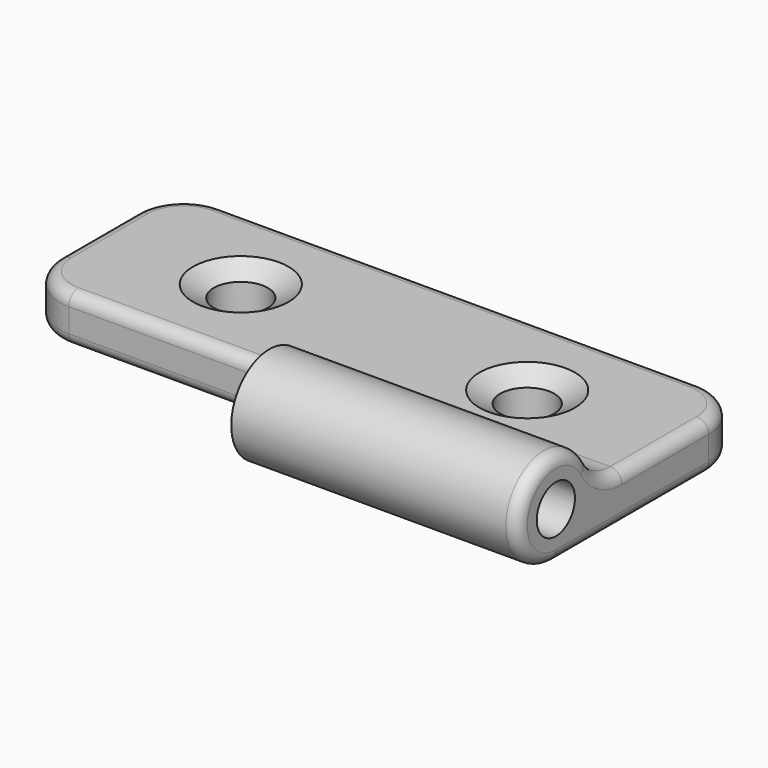
from build123d import *

# Parameters (mm, degrees)
F0_R     = 3.175
F1_DEPTH = 38.1
F2_W     = 25.4
F2_H     = 6.35
F3_DEPTH = 38.1
F4_R     = 6.35
F5_DEPTH = 1.5875
F5_TAPER = 60
F6_R     = 3.600369343
F7_DEPTH = 4.7635
F8_R     = 6.35
F9_R     = 1.5875


with BuildPart() as f1:
    # F0 (on Right) → F1 (new body)
    with BuildSketch(Plane.YZ):
        with BuildLine():
            Line((12.7, -3.175), (12.7, 3.175))
            Line((12.7, 3.175), (-8.0514773719, 3.175))
            ThreePointArc((-8.0514773719, 3.175), (-11.2264773719, 4.025738686), (-13.550738686, 6.35))
            ThreePointArc((-13.550738686, 6.35), (-24.549261314, 6.35), (-19.05, -3.175))
            Line((-19.05, -3.175), (12.7, -3.175))
        make_face()
        with Locations((-19.05, 3.175)):
            Circle(F0_R, mode=Mode.SUBTRACT)
    extrude(amount=F1_DEPTH)

    # F2 (on Right) → F3 (join)
    with BuildSketch(Plane.YZ):
        Rectangle(F2_W, F2_H)
    extrude(amount=-F3_DEPTH)

    # F4 (on face) → F5 (cut)
    with BuildSketch(Plane.XY.offset(3.175)):
        with Locations((19.05, 0)):
            Circle(F4_R)
        with Locations((-19.05, 0)):
            Circle(F4_R)
    extrude(amount=-F5_DEPTH, taper=F5_TAPER, mode=Mode.SUBTRACT)

    # F6 (on face) → F7 (cut, through all)
    with BuildSketch(Plane.XY.offset(1.5875)):
        with Locations((19.05, 0)):
            Circle(F6_R)
        with Locations((-19.05, 0)):
            Circle(F6_R)
    extrude(amount=-F7_DEPTH, mode=Mode.SUBTRACT)

    # F8
    f8_edges = [f1.edges().sort_by_distance(p)[0] for p in [
        (38.1, 12.7, 0),
        (-38.1, 12.7, 0),
        (-38.1, -12.7, 0),
    ]]
    fillet(f8_edges, radius=F8_R)

    # F9
    f9_edges = [f1.edges().sort_by_distance(p)[0] for p in [
        (0, 12.7, 3.175),
        (36.240128, 10.840128, 3.175),
    ]]
    fillet(f9_edges, radius=F9_R)


solid = f1.part
